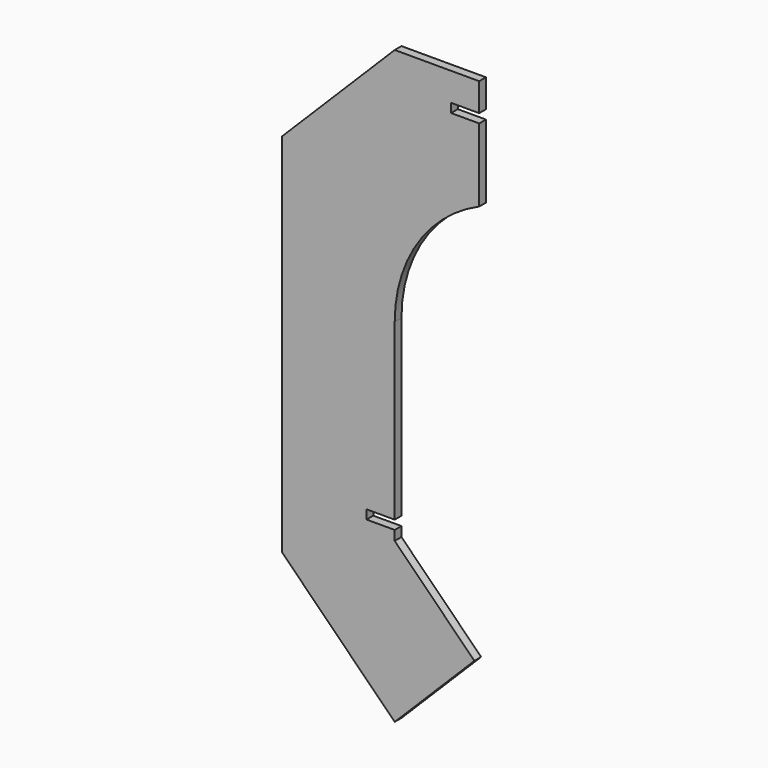
from build123d import *

# Parameters (mm, degrees)
F1_DEPTH = 1.5
F2_W     = 10
F2_H     = 3.2
F3_DEPTH = 3.001


with BuildPart() as f1:
    # F0 (on Front) → F1 (new body, symmetric)
    with BuildSketch(Plane.XZ):
        with BuildLine():
            Line((0, -35), (0, 0))
            Line((0, 0), (-50, 0))
            Line((-50, 0), (-90, -40))
            Line((-90, -40), (-90, -170))
            Line((-90, -170), (-50, -210))
            Line((-50, -210), (-21.715729, -181.715729))
            Line((-21.715729, -181.715729), (-50, -153.431458))
            Line((-50, -153.431458), (-50, -85))
            ThreePointArc((-50, -85), (-35.355339, -49.644661), (0, -35))
        make_face()
    extrude(amount=F1_DEPTH, both=True)

    # F2 (on face) → F3 (cut, through all)
    with BuildSketch(Plane.XZ.offset(1.5)):
        with BuildLine():
            Line((0, 0), (-20, 0))
            Line((-20, 0), (-20, -10))
            Line((-20, -10), (-30, -10))
            Line((-30, -10), (-30, -13.2))
            Line((-30, -13.2), (-20, -13.2))
            Line((-20, -13.2), (-20, -39.174243))
            ThreePointArc((-20, -39.174243), (-10.215482, -36.054684), (0, -35))
            Line((0, -35), (0, 0))
        make_face()
        with Locations((-55, -148.4)):
            Rectangle(F2_W, F2_H)
    extrude(amount=-F3_DEPTH, mode=Mode.SUBTRACT)


solid = f1.part
